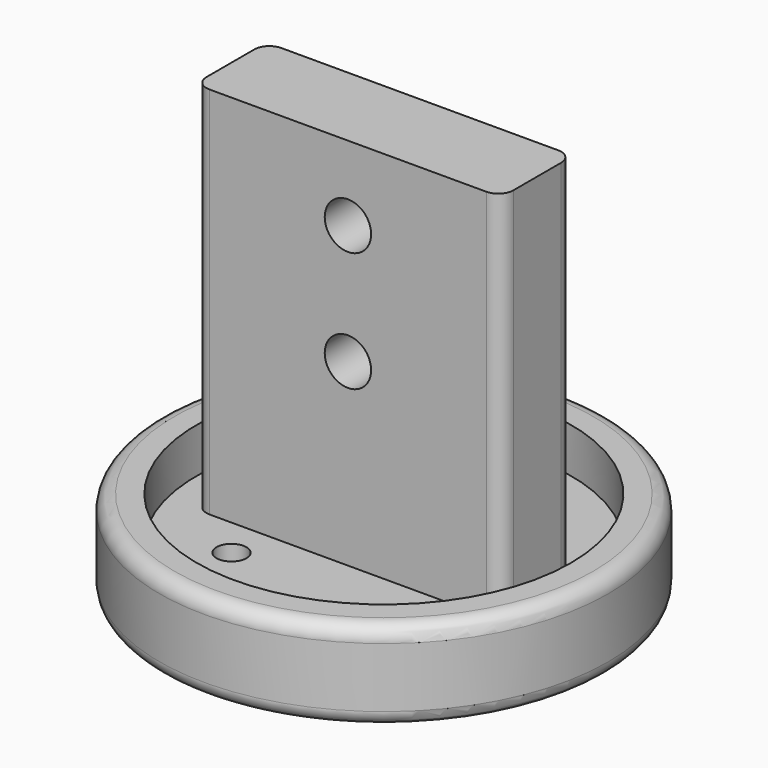
from build123d import *

# Parameters (mm, degrees)
SKETCH_R        = 15
PAD_DEPTH       = 6
FILLET_R        = 1
FILLET001_R     = 1
SKETCH001_R     = 12.5
POCKET_DEPTH    = 3
SKETCH002_W     = 20.5
SKETCH002_H     = 6
PAD001_DEPTH    = 25
SKETCH003_R     = 1.55
POCKET001_DEPTH = 20
SKETCH004_R     = 1
POCKET002_DEPTH = 6
FILLET002_R     = 1
FILLET003_R     = 1
FILLET004_R     = 1
FILLET005_R     = 1


with BuildPart() as part:
    # Sketch → Pad (new body)
    with BuildSketch(Plane.XY):
        Circle(SKETCH_R)
    extrude(amount=PAD_DEPTH)

    # Fillet
    fillet_edges = [part.edges().sort_by_distance(p)[0] for p in [
        (-15, 0, 0),
    ]]
    fillet(fillet_edges, radius=FILLET_R)

    # Fillet001
    fillet001_edges = [part.edges().sort_by_distance(p)[0] for p in [
        (-15, 0, 6),
    ]]
    fillet(fillet001_edges, radius=FILLET001_R)

    # Sketch001 (on Face4 of Fillet001) → Pocket (cut)
    with BuildSketch(Plane.XY.offset(6)):
        Circle(SKETCH001_R)
    extrude(amount=-POCKET_DEPTH, mode=Mode.SUBTRACT)

    # Sketch002 (on Face7 of Pocket) → Pad001 (join)
    with BuildSketch(Plane.XY.offset(3)):
        Rectangle(SKETCH002_W, SKETCH002_H)
    extrude(amount=PAD001_DEPTH)

    # Sketch003 (on Face11 of Pad001) → Pocket001 (cut)
    with BuildSketch(Plane(origin=(0, 3, 0), x_dir=(-1, 0, 0), z_dir=(0, 1, 0))):
        with Locations((0, 23)):
            Circle(SKETCH003_R)
        with Locations((0, 15)):
            Circle(SKETCH003_R)
    extrude(amount=-POCKET001_DEPTH, mode=Mode.SUBTRACT)

    # Sketch004 (on Face3 of Pad) → Pocket002 (cut)
    with BuildSketch(Plane.XY.offset(6)):
        with Locations((-5.656854, 5.656854)):
            Circle(SKETCH004_R)
        with Locations((5.656854, 5.656854)):
            Circle(SKETCH004_R)
        with Locations((-5.656854, -5.656854)):
            Circle(SKETCH004_R)
        with Locations((5.656854, -5.656854)):
            Circle(SKETCH004_R)
    extrude(amount=-POCKET002_DEPTH, mode=Mode.SUBTRACT)

    # Fillet002
    fillet002_edges = [part.edges().sort_by_distance(p)[0] for p in [
        (-10.25, -3, 15.5),
    ]]
    fillet(fillet002_edges, radius=FILLET002_R)

    # Fillet003
    fillet003_edges = [part.edges().sort_by_distance(p)[0] for p in [
        (10.25, -3, 15.5),
    ]]
    fillet(fillet003_edges, radius=FILLET003_R)

    # Fillet004
    fillet004_edges = [part.edges().sort_by_distance(p)[0] for p in [
        (10.25, 3, 15.5),
    ]]
    fillet(fillet004_edges, radius=FILLET004_R)

    # Fillet005
    fillet005_edges = [part.edges().sort_by_distance(p)[0] for p in [
        (-10.25, 3, 15.5),
    ]]
    fillet(fillet005_edges, radius=FILLET005_R)


solid = part.part
